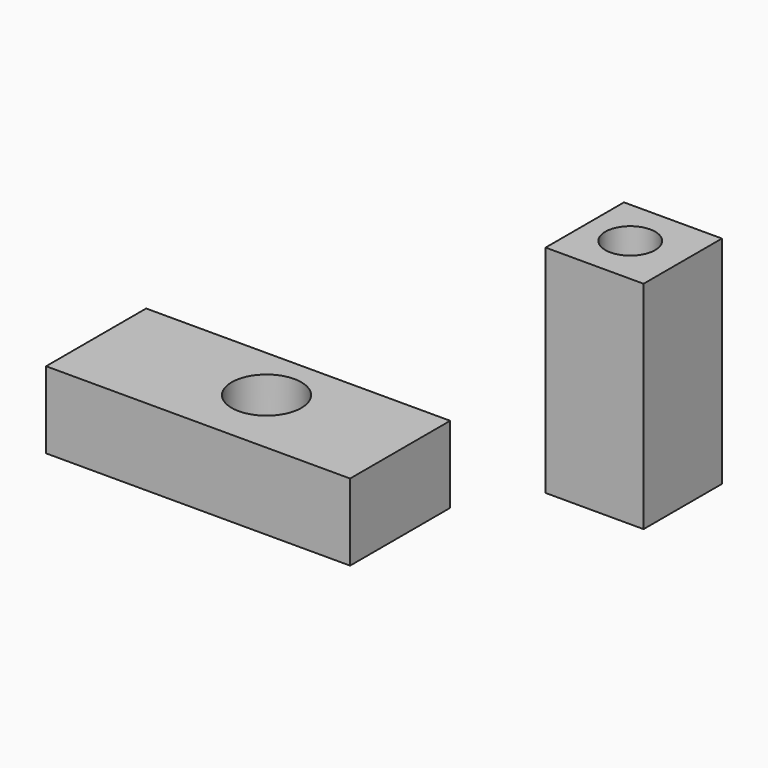
from build123d import *

# Parameters (mm, degrees)
F0_W     = 93.0038541555
F0_H     = 76.6185969114
F0_R     = 21.3443090391
F1_DEPTH = 46.99
F2_DEPTH = 34.29
F3_DEPTH = 58.928
F4_W     = 60
F4_H     = 60
F4_R     = 15.2716118789
F5_DEPTH = 132.334


with BuildPart() as f1:
    # F0 (on Top) → F1 (new body)
    with BuildSketch(Plane.XY):
        with Locations((-46.5019270778, -38.3092984557)):
            Rectangle(F0_W, F0_H)
        with Locations((-50.9113110602, -34.0880826116)):
            Circle(F0_R, mode=Mode.SUBTRACT)
    extrude(amount=F1_DEPTH)

    # F2 (add): a face of the model
    f2_faces = [f1.faces().sort_by_distance(p)[0] for p in [
        (0, -38.3092984557, 23.495),
    ]]
    extrude(f2_faces, amount=F2_DEPTH)

    # F3 (add): a face of the model
    f3_faces = [f1.faces().sort_by_distance(p)[0] for p in [
        (-93.0038541555, -38.3092984557, 23.495),
    ]]
    extrude(f3_faces, amount=F3_DEPTH)


with BuildPart() as f5:
    # F4 (on Top) → F5 (new body)
    with BuildSketch(Plane.XY):
        with Locations((90.2718063444, 70.6015230619)):
            Rectangle(F4_W, F4_H)
        with Locations((87.5700501066, 71.2849623934)):
            Circle(F4_R, mode=Mode.SUBTRACT)
    extrude(amount=F5_DEPTH)


solid = Compound([f1.part, f5.part])
